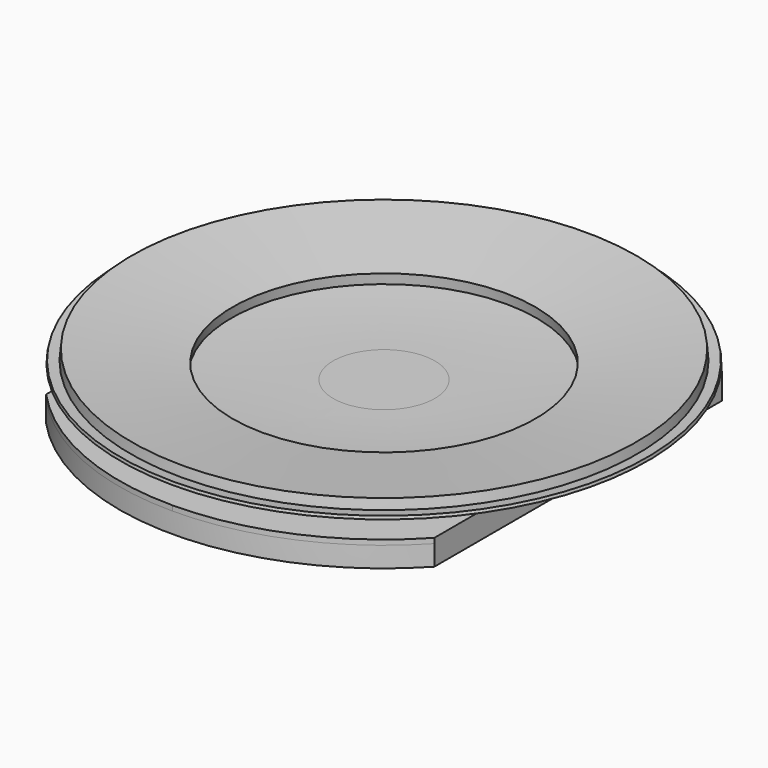
from build123d import *

# Parameters (mm, degrees)
F1_R      = 12
F2_DEPTH  = 0.5
F2_FACE_R = 12
F3_DEPTH  = 2


with BuildPart() as f2:
    # F1 (on Top) → F2 (new body)
    with BuildSketch(Plane.XY):
        with BuildLine():
            ThreePointArc((19.07828, 17.664066), (10.409954, 23.825047), (0, 26))
            ThreePointArc((0, 26), (-10.409954, 23.825047), (-19.07828, 17.664066))
            Line((-19.07828, 17.664066), (-19.07828, 0))
            Line((-19.07828, 0), (-19.07828, -17.664066))
            ThreePointArc((-19.07828, -17.664066), (-10.409954, -23.825047), (0, -26))
            ThreePointArc((0, -26), (10.409954, -23.825047), (19.07828, -17.664066))
            Line((19.07828, -17.664066), (19.07828, 0))
            Line((19.07828, 0), (19.07828, 17.664066))
        make_face()
        Circle(F1_R, mode=Mode.SUBTRACT)
    extrude(amount=-F2_DEPTH)

    # F2_face (on face) → F3 (join)
    with BuildSketch(Plane(origin=(0, 0, -0.5), x_dir=(1, 0, 0), z_dir=(0, 0, -1))):
        with BuildLine():
            ThreePointArc((-19.07828, -17.664066), (0, -26), (19.07828, -17.664066))
            Line((19.07828, -17.664066), (19.07828, 17.664066))
            ThreePointArc((19.07828, 17.664066), (0, 26), (-19.07828, 17.664066))
            Line((-19.07828, 17.664066), (-19.07828, -17.664066))
        make_face()
        Circle(F2_FACE_R, mode=Mode.SUBTRACT)
    extrude(amount=F3_DEPTH)


with BuildPart() as f5:
    # F4 (on Right) → F5 (revolve)
    with BuildSketch(Plane.YZ):
        with BuildLine():
            Line((0, 0), (0, 0.3))
            Line((0, 0.3), (-5, 0.3))
            ThreePointArc((-5, 0.3), (-10.392303, 0.41189), (-15.775324, 0.747368))
            ThreePointArc((-15.775324, 0.747368), (-20.829663, 1.267428), (-25.859817, 1.984614))
            Line((-25.859817, 1.984614), (-25.907958, 1.688502))
            ThreePointArc((-25.907958, 1.688502), (-15.488014, 0.422811), (-5, 0))
            Line((-5, 0), (0, 0))
        make_face()
    revolve(axis=Axis((0, 0, 1.302655), (0, 0, -1)))


with BuildPart() as f7:
    # F6 (on Right) → F7 (revolve)
    with BuildSketch(Plane.YZ):
        Polygon((-24.803636, 2.968541), (-24.90564, 1.973757), (-15, 0.757497), (-14.87815, 1.750045), align=None)
    revolve(axis=Axis((0, 0, 0.451372), (0, 0, 1)))


solid = Compound([f2.part, f5.part, f7.part])
